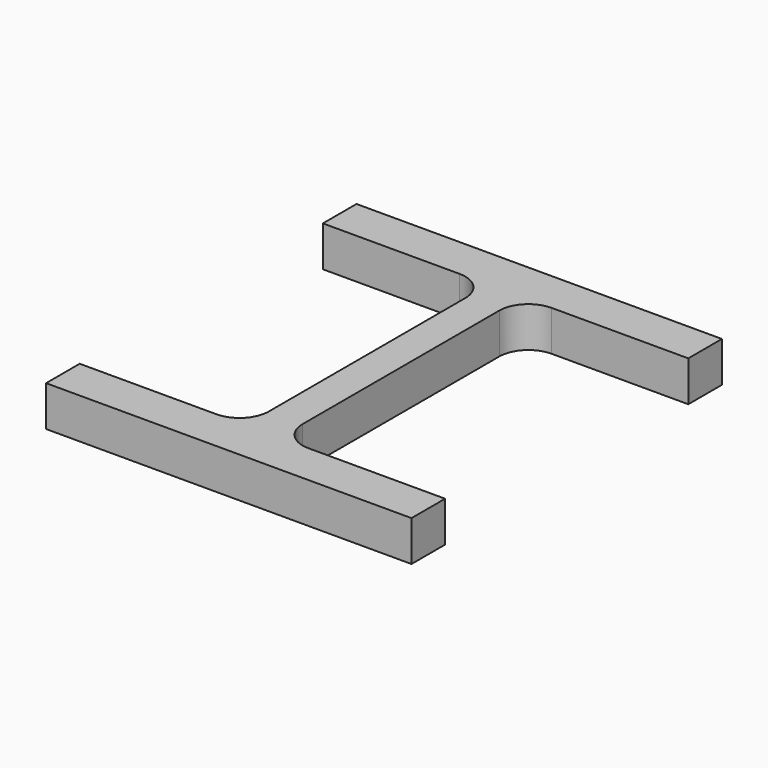
from build123d import *

# Parameters (mm, degrees)
F1_DEPTH = 25


with BuildPart() as f1:
    # F0 (on Top) → F1 (new body)
    with BuildSketch(Plane.XY):
        with BuildLine():
            Line((107.75, 128.532089), (-118.25, 128.532089))
            Line((-118.25, 128.532089), (-118.25, 102.532089))
            Line((-118.25, 102.532089), (-33.75, 102.532089))
            ThreePointArc((-33.75, 102.532089), (-21.022078, 97.260011), (-15.75, 84.532089))
            Line((-15.75, 84.532089), (-15.75, 0))
            Line((-15.75, 0), (5.25, 0))
            Line((5.25, 0), (5.25, 84.532089))
            ThreePointArc((5.25, 84.532089), (10.522078, 97.260011), (23.25, 102.532089))
            Line((23.25, 102.532089), (107.75, 102.532089))
            Line((107.75, 102.532089), (107.75, 128.532089))
        make_face()
        with BuildLine():
            Line((5.25, 0), (-15.75, 0))
            Line((-15.75, 0), (-15.75, -67.467911))
            ThreePointArc((-15.75, -67.467911), (-21.022078, -80.195833), (-33.75, -85.467911))
            Line((-33.75, -85.467911), (-118.25, -85.467911))
            Line((-118.25, -85.467911), (-118.25, -111.467911))
            Line((-118.25, -111.467911), (107.75, -111.467911))
            Line((107.75, -111.467911), (107.75, -85.467911))
            Line((107.75, -85.467911), (23.25, -85.467911))
            ThreePointArc((23.25, -85.467911), (10.522078, -80.195833), (5.25, -67.467911))
            Line((5.25, -67.467911), (5.25, 0))
        make_face()
    extrude(amount=F1_DEPTH)


solid = f1.part
